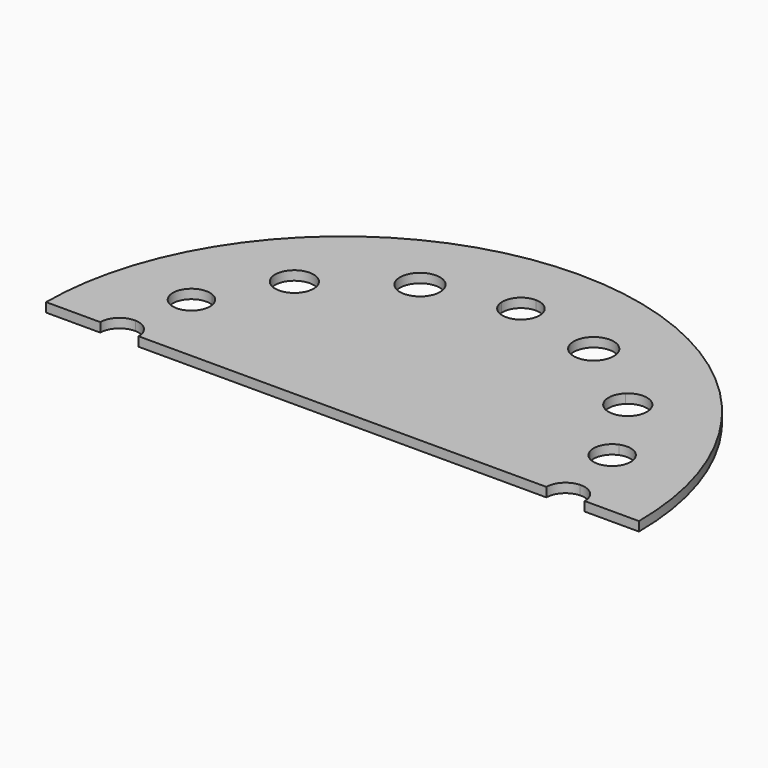
from build123d import *

# Parameters (mm, degrees)
F1_DEPTH = 3.175


with BuildPart() as f1:
    # F0 (on Top) → F1 (new body)
    with BuildSketch(Plane.XY):
        with BuildLine():
            Line((0, 82.8428900972), (0, 101.6198892983))
            ThreePointArc((0, 101.6198892983), (-71.8561128263, 71.8561128263), (-101.6198892983, 0))
            Line((-101.6198892983, 0), (-83.0405046204, 0))
            ThreePointArc((-83.0405046204, 0), (-81.0138961368, 4.747652407), (-76.1835112753, 6.5682916938))
            ThreePointArc((-76.1835112753, 6.5682916938), (-75.3538778245, 12.9947275008), (-73.9831338439, 19.3278491468))
            ThreePointArc((-73.9831338439, 19.3278491468), (-78.1170647151, 27.5165370514), (-69.7636527981, 31.306590269))
            ThreePointArc((-69.7636527981, 31.306590269), (-65.9297039839, 38.7342739522), (-61.3079271878, 45.6991018505))
            ThreePointArc((-61.3079271878, 45.6991018505), (-62.070439488, 55.1904658501), (-52.5550284868, 55.5431258281))
            ThreePointArc((-52.5550284868, 55.5431258281), (-44.6644810596, 62.0657230497), (-35.973351178, 67.4758316068))
            ThreePointArc((-35.973351178, 67.4758316068), (-32.4523110588, 76.7481303158), (-23.3473151394, 72.8146463412))
            ThreePointArc((-23.3473151394, 72.8146463412), (-14.9553750219, 74.9893766074), (-6.3712090649, 76.200246332))
            ThreePointArc((-6.3712090649, 76.200246332), (-4.6020924898, 80.8801750033), (0, 82.8428900972))
        make_face()
        with BuildLine():
            Line((83.0405046204, 0), (101.6198892983, 0))
            ThreePointArc((101.6198892983, 0), (71.8561128263, 71.8561128263), (0, 101.6198892983))
            Line((0, 101.6198892983), (0, 82.8428900972))
            ThreePointArc((0, 82.8428900972), (4.509046567, 80.9751818558), (6.3767548084, 76.4661352888))
            ThreePointArc((6.3767548084, 76.4661352888), (6.3753682218, 76.3331618962), (6.3712090649, 76.200246332))
            ThreePointArc((6.3712090649, 76.200246332), (14.9553750219, 74.9893766074), (23.3473151394, 72.8146463412))
            ThreePointArc((23.3473151394, 72.8146463412), (30.9922218938, 77.1819499048), (36.641312364, 70.4287494368))
            ThreePointArc((36.641312364, 70.4287494368), (36.4722388851, 68.9149879086), (35.973351178, 67.4758316068))
            ThreePointArc((35.973351178, 67.4758316068), (44.6644810596, 62.0657230497), (52.5550284868, 55.5431258281))
            ThreePointArc((52.5550284868, 55.5431258281), (59.71374592, 56.8808501906), (63.7362883578, 50.8099446492))
            ThreePointArc((63.7362883578, 50.8099446492), (63.0983300746, 47.9807375127), (61.3079271878, 45.6991018505))
            ThreePointArc((61.3079271878, 45.6991018505), (65.9297039839, 38.7342739522), (69.7636527981, 31.306590269))
            ThreePointArc((69.7636527981, 31.306590269), (75.6863195554, 30.6673507833), (78.478089889, 25.4049723246))
            ThreePointArc((78.478089889, 25.4049723246), (77.232242702, 21.625552529), (73.9831338439, 19.3278491468))
            ThreePointArc((73.9831338439, 19.3278491468), (75.3538778245, 12.9947275008), (76.1835112753, 6.5682916938))
            ThreePointArc((76.1835112753, 6.5682916938), (81.0138961368, 4.747652407), (83.0405046204, 0))
        make_face()
        with BuildLine():
            ThreePointArc((6.3712090649, 76.200246332), (4.4140397145, 71.864042799), (0, 70.0893804804))
            Line((0, 70.0893804804), (0, 0))
            Line((0, 0), (27.1081153594, 64.1093685577))
            ThreePointArc((27.1081153594, 64.1093685577), (23.4817449036, 67.7077241487), (23.3473151394, 72.8146463412))
            ThreePointArc((23.3473151394, 72.8146463412), (14.9553750219, 74.9893766074), (6.3712090649, 76.200246332))
        make_face()
        with BuildLine():
            ThreePointArc((0, 70.0893804804), (-4.4140397145, 71.864042799), (-6.3712090649, 76.200246332))
            ThreePointArc((-6.3712090649, 76.200246332), (-14.9553750219, 74.9893766074), (-23.3473151394, 72.8146463412))
            ThreePointArc((-23.3473151394, 72.8146463412), (-23.0270127411, 71.6407581215), (-22.9191140542, 70.4287494368))
            ThreePointArc((-22.9191140542, 70.4287494368), (-24.0614629124, 66.6378950928), (-27.1081153594, 64.1093685577))
            Line((-27.1081153594, 64.1093685577), (0, 0))
            Line((0, 0), (0, 70.0893804804))
        make_face()
        with BuildLine():
            Line((52.217256626, 46.4294234482), (0, 0))
            Line((0, 0), (66.1279660789, 23.2934075977))
            ThreePointArc((66.1279660789, 23.2934075977), (66.3348002352, 28.0309350677), (69.7636527981, 31.306590269))
            ThreePointArc((69.7636527981, 31.306590269), (65.9297039839, 38.7342739522), (61.3079271878, 45.6991018505))
            ThreePointArc((61.3079271878, 45.6991018505), (56.6159288766, 44.2386760913), (52.217256626, 46.4294234482))
        make_face()
        with BuildLine():
            ThreePointArc((69.8917659573, 0), (71.7184828819, 4.547760848), (76.1835112753, 6.5682916938))
            ThreePointArc((76.1835112753, 6.5682916938), (75.3538778245, 12.9947275008), (73.9831338439, 19.3278491468))
            ThreePointArc((73.9831338439, 19.3278491468), (69.2582948104, 19.7313872539), (66.1279660789, 23.2934075977))
            Line((66.1279660789, 23.2934075977), (0, 0))
            Line((0, 0), (69.8917659573, 0))
        make_face()
        with BuildLine():
            Line((-52.217256626, 46.4294234482), (0, 0))
            Line((0, 0), (-27.1081153594, 64.1093685577))
            ThreePointArc((-27.1081153594, 64.1093685577), (-32.215926502, 64.014547821), (-35.973351178, 67.4758316068))
            ThreePointArc((-35.973351178, 67.4758316068), (-44.6644810596, 62.0657230497), (-52.5550284868, 55.5431258281))
            ThreePointArc((-52.5550284868, 55.5431258281), (-51.0729425155, 53.3798425122), (-50.5514077561, 50.8099446492))
            ThreePointArc((-50.5514077561, 50.8099446492), (-50.9819275359, 48.4666553772), (-52.217256626, 46.4294234482))
        make_face()
        with BuildLine():
            Line((-66.1279660789, 23.2934075977), (0, 0))
            Line((0, 0), (-52.217256626, 46.4294234482))
            ThreePointArc((-52.217256626, 46.4294234482), (-56.6159288766, 44.2386760913), (-61.3079271878, 45.6991018505))
            ThreePointArc((-61.3079271878, 45.6991018505), (-65.9297039839, 38.7342739522), (-69.7636527981, 31.306590269))
            ThreePointArc((-69.7636527981, 31.306590269), (-66.8601369383, 28.968776483), (-65.7669409051, 25.4049723246))
            ThreePointArc((-65.7669409051, 25.4049723246), (-65.8578473348, 24.3338695317), (-66.1279660789, 23.2934075977))
        make_face()
        with BuildLine():
            ThreePointArc((-73.9831338439, 19.3278491468), (-75.3538778245, 12.9947275008), (-76.1835112753, 6.5682916938))
            ThreePointArc((-76.1835112753, 6.5682916938), (-71.7184828819, 4.547760848), (-69.8917659573, 0))
            Line((-69.8917659573, 0), (0, 0))
            Line((0, 0), (-66.1279660789, 23.2934075977))
            ThreePointArc((-66.1279660789, 23.2934075977), (-69.2582948104, 19.7313872539), (-73.9831338439, 19.3278491468))
        make_face()
        with BuildLine():
            Line((27.1081153594, 64.1093685577), (0, 0))
            Line((0, 0), (52.217256626, 46.4294234482))
            ThreePointArc((52.217256626, 46.4294234482), (50.5559307535, 51.0541059125), (52.5550284868, 55.5431258281))
            ThreePointArc((52.5550284868, 55.5431258281), (44.6644810596, 62.0657230497), (35.973351178, 67.4758316068))
            ThreePointArc((35.973351178, 67.4758316068), (32.215926502, 64.014547821), (27.1081153594, 64.1093685577))
        make_face()
    extrude(amount=F1_DEPTH)


solid = f1.part
